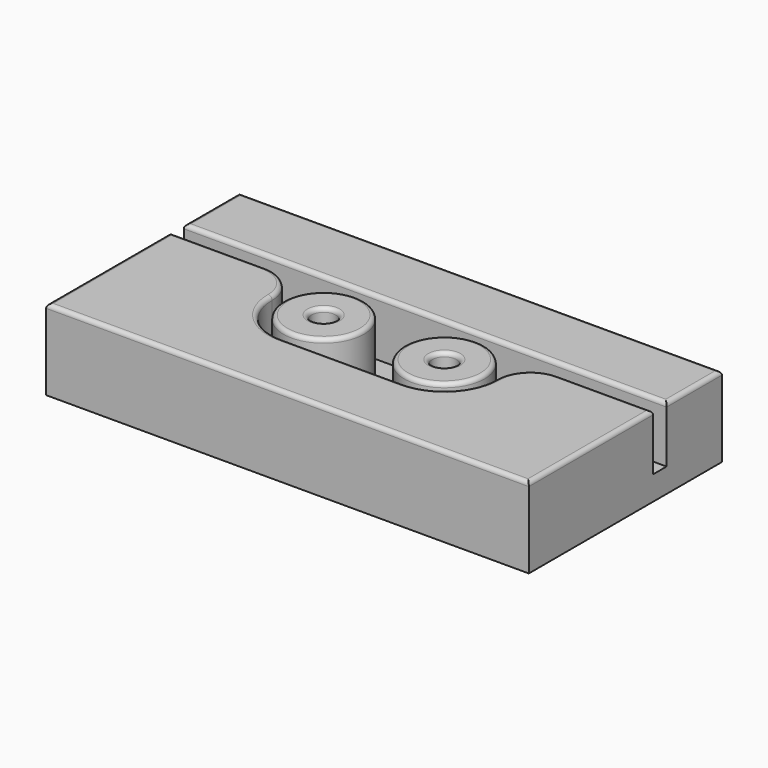
from build123d import *

# Parameters (mm, degrees)
F0_W     = 60
F0_H     = 30
F1_DEPTH = 3
F2_W     = 60
F2_H     = 8.6
F2_R     = 5
F2_R_2   = 1.5
F3_DEPTH = 7
F4_R     = 0.5


with BuildPart() as f1:
    # F0 (on Top) → F1 (new body)
    with BuildSketch(Plane.XY):
        Rectangle(F0_W, F0_H)
    extrude(amount=F1_DEPTH)

    # F2 (on face) → F3 (join)
    with BuildSketch(Plane.XY.offset(3)):
        with Locations((0, 10.7)):
            Rectangle(F2_W, F2_H)
        with Locations((-7.5, 0)):
            Circle(F2_R)
        with Locations((-7.5, 0)):
            Circle(F2_R_2, mode=Mode.SUBTRACT)
        with Locations((7.5, 0)):
            Circle(F2_R)
        with Locations((7.5, 0)):
            Circle(F2_R_2, mode=Mode.SUBTRACT)
        with BuildLine():
            Line((-18.2, 4.3), (-30, 4.3))
            Line((-30, 4.3), (-30, -15))
            Line((-30, -15), (30, -15))
            Line((30, -15), (30, 4.3))
            Line((30, 4.3), (18.2, 4.3))
            ThreePointArc((18.2, 4.3), (15.159441, 3.040559), (13.9, 0))
            ThreePointArc((13.9, 0), (12.025483, -4.525483), (7.5, -6.4))
            Line((7.5, -6.4), (-7.5, -6.4))
            ThreePointArc((-7.5, -6.4), (-12.025483, -4.525483), (-13.9, 0))
            ThreePointArc((-13.9, 0), (-15.159441, 3.040559), (-18.2, 4.3))
        make_face()
    extrude(amount=F3_DEPTH)

    # F4
    f4_edges = [f1.edges().sort_by_distance(p)[0] for p in [
        (-15.159441, 3.040559, 10),
        (-24.1, 4.3, 10),
        (-30, -5.35, 10),
        (0, -15, 10),
        (30, -5.35, 10),
        (24.1, 4.3, 10),
        (15.159441, 3.040559, 10),
        (12.025483, -4.525483, 10),
        (0, -6.4, 10),
        (-12.025483, -4.525483, 10),
        (0, 15, 10),
        (-30, 10.7, 10),
        (0, 6.4, 10),
        (30, 10.7, 10),
        (-12.5, 0, 10),
        (-9, 0, 10),
        (2.5, 0, 10),
        (6, 0, 10),
    ]]
    fillet(f4_edges, radius=F4_R)


solid = f1.part
